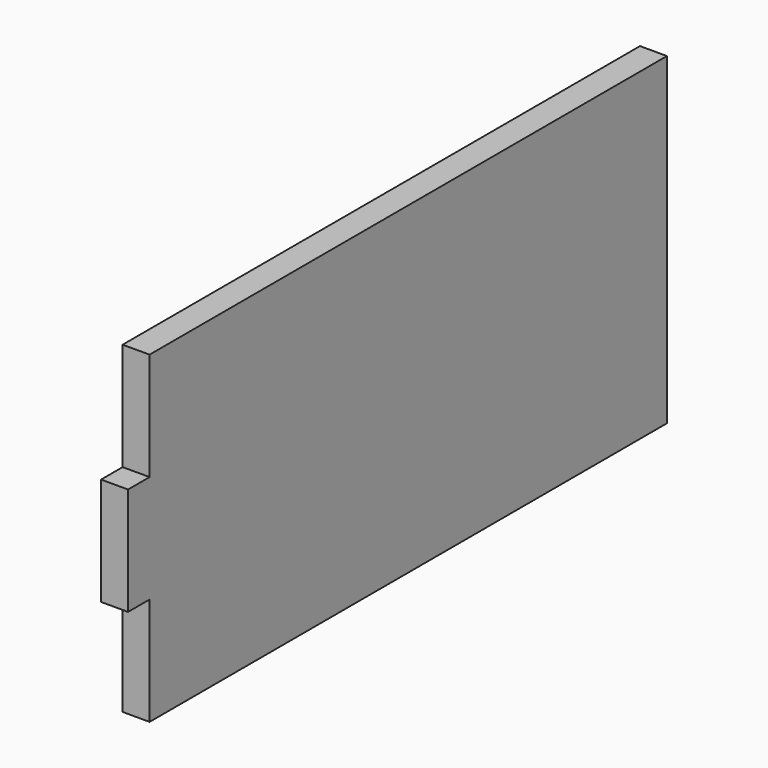
from build123d import *

# Parameters (mm, degrees)
F0_W     = 3.175
F0_H     = 12.7
F1_DEPTH = 3.175


with BuildPart() as f1:
    # F0 (on Right) → F1 (new body)
    with BuildSketch(Plane.YZ):
        with Locations((-77.7875, 19.05)):
            Rectangle(F0_W, F0_H)
        Polygon((0, 0), (0, 38.1), (-76.2, 38.1), (-76.2, 25.4), (-76.2, 12.7), (-76.2, 0), align=None)
    extrude(amount=F1_DEPTH)


solid = f1.part
